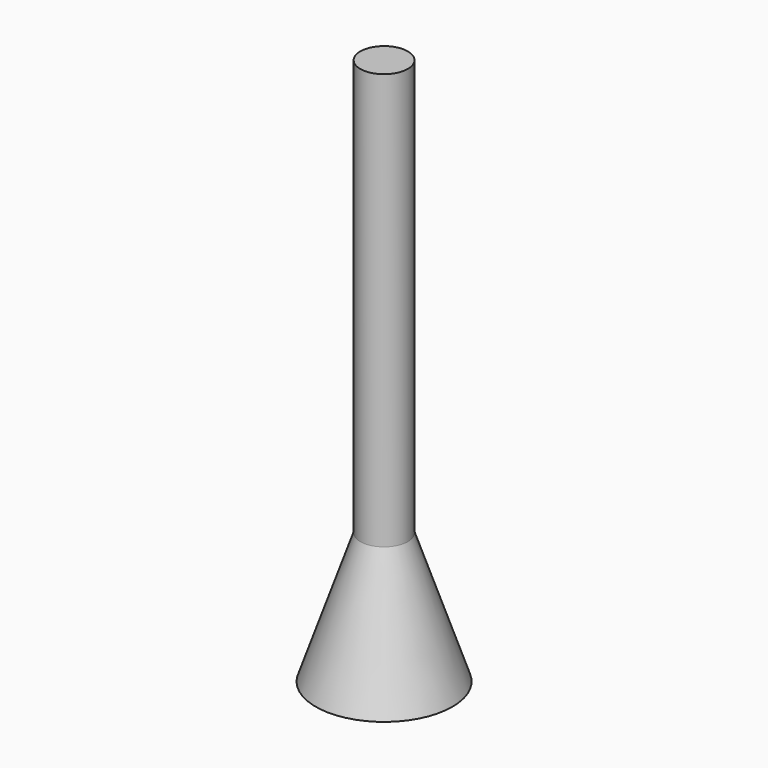
from build123d import *

# Parameters (mm, degrees)
F0_R     = 11.5
F2_R     = 4
F4_DEPTH = 70


with BuildPart() as f3:
    # F0 (on Top) → F3 section 0
    with BuildSketch(Plane.XY):
        Circle(F0_R)
    # F2 (on offset) → F3 section 1
    with BuildSketch(Plane.XY.offset(22)):
        Circle(F2_R)
    loft()

    # F4 (add): a face of the model
    f4_faces = [f3.faces().sort_by_distance(p)[0] for p in [
        (0, 0, 22),
    ]]
    extrude(f4_faces, amount=F4_DEPTH)


solid = f3.part
